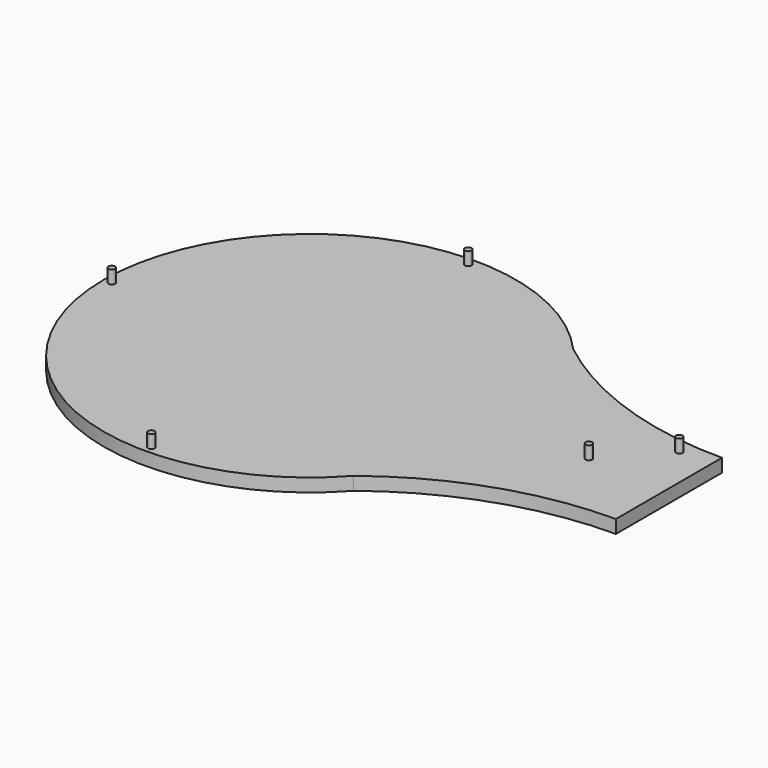
from build123d import *

# Parameters (mm, degrees)
F0_R     = 1.25
F1_DEPTH = 5
F2_DEPTH = 5
F3_DEPTH = 5


with BuildPart() as f1:
    # F0 (on Top) → F1 (new body)
    with BuildSketch(Plane.XY):
        with BuildLine():
            ThreePointArc((52.175985, 23.970867), (10.978788, 30.890651), (-25.696786, 50.89052))
            ThreePointArc((-25.696786, 50.89052), (-161.829837, -1.114364), (-25.706141, -53.143729))
            ThreePointArc((-25.706141, -53.143729), (10.971628, -33.137817), (52.175985, -26.231581))
            Line((52.175985, -26.231581), (52.175985, -1.131581))
            Line((52.175985, -1.131581), (52.175985, 23.970867))
        make_face()
        with Locations((-83.827306, -76.123909)):
            Circle(F0_R, mode=Mode.SUBTRACT)
        with Locations((-158.829837, -1.128392)):
            Circle(F0_R, mode=Mode.SUBTRACT)
        with Locations((-83.827306, 73.881153)):
            Circle(F0_R, mode=Mode.SUBTRACT)
        with Locations((21.709267, -0.885356)):
            Circle(F0_R, mode=Mode.SUBTRACT)
        with Locations((39.925987, 19.149961)):
            Circle(F0_R, mode=Mode.SUBTRACT)
    extrude(amount=-F1_DEPTH)


with BuildPart() as f2:
    # F0 (on Top) → F2 (new body)
    with BuildSketch(Plane.XY):
        with Locations((39.925987, 19.149961)):
            Circle(F0_R)
        with Locations((21.709267, -0.885356)):
            Circle(F0_R)
        with Locations((-83.827306, 73.881153)):
            Circle(F0_R)
        with Locations((-83.827306, -76.123909)):
            Circle(F0_R)
        with Locations((-158.829837, -1.128392)):
            Circle(F0_R)
    extrude(amount=F2_DEPTH)


with BuildPart() as f3:
    # F0 (on Top) → F3 (new body)
    with BuildSketch(Plane.XY):
        with Locations((-158.829837, -1.128392)):
            Circle(F0_R)
        with Locations((-83.827306, -76.123909)):
            Circle(F0_R)
        with Locations((-83.827306, 73.881153)):
            Circle(F0_R)
        with Locations((21.709267, -0.885356)):
            Circle(F0_R)
        with Locations((39.925987, 19.149961)):
            Circle(F0_R)
    extrude(amount=-F3_DEPTH)


with BuildPart() as f1_1:
    add(f1.part)

    # F4: union F2, F3
    add(f2.part)
    add(f3.part)


solid = f1_1.part
